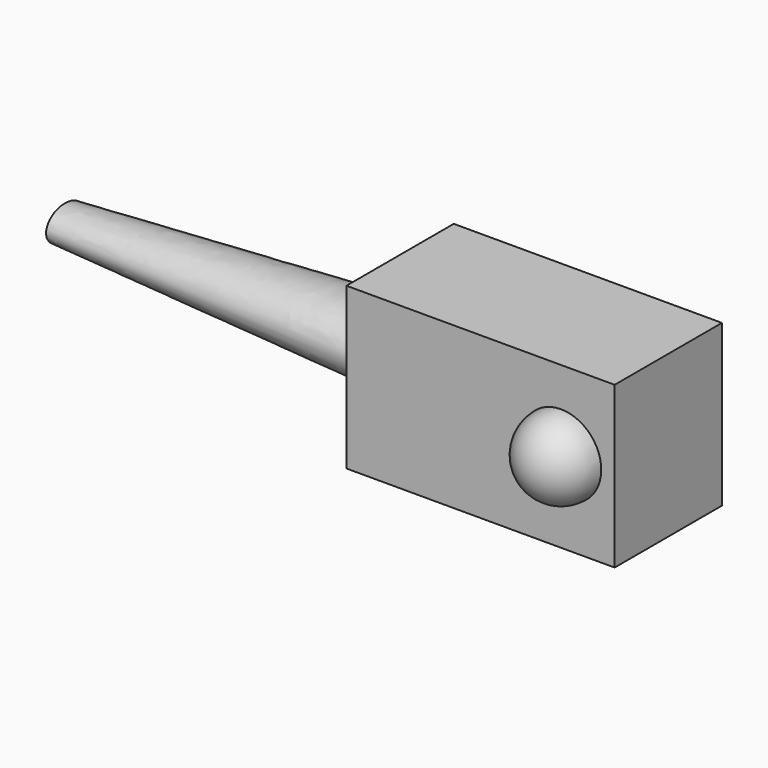
from build123d import *

# Parameters (mm, degrees)
F0_W     = 200
F0_H     = 100
F1_DEPTH = 120


with BuildPart() as f1:
    # F0 (on Top) → F1 (new body)
    with BuildSketch(Plane.XY):
        with Locations((-2440, -1220)):
            Rectangle(F0_W, F0_H)
    extrude(amount=F1_DEPTH)

    # F2 (on face) → F3 (revolve)
    with BuildSketch(Plane.XZ.offset(1270)):
        with BuildLine():
            Line((-2380, 90.9458833933), (-2380, 30.9458833933))
            ThreePointArc((-2380, 30.9458833933), (-2350, 60.9458833933), (-2380, 90.9458833933))
        make_face()
    revolve(axis=Axis((-2380, -1270, 60.9458833933), (0, 0, -1)))

    # F5 (on face) → F8 section 0
    with BuildSketch(Plane(origin=(-2540, 0, 0), x_dir=(0, -1, 0), z_dir=(-1, 0, 0))):
        with BuildLine():
            add(Edge.make_bspline(
                [(1255, 60), (1255, 103.3012701892), (1202.5, 81.6506350946), (1150, 60), (1202.5, 38.3493649054), (1255, 16.6987298108), (1255, 60)],
                knots=[0, 0, 0, 2.0943951024, 2.0943951024, 4.1887902048, 4.1887902048, 6.2831853072, 6.2831853072, 6.2831853072], degree=2, weights=[1, 0.5, 1, 0.5, 1, 0.5, 1]))
        make_face()
    # F7 (on offset) → F8 section 1
    with BuildSketch(Plane(origin=(-2790, 0, 0), x_dir=(0, -1, 0), z_dir=(-1, 0, 0))):
        with BuildLine():
            add(Edge.make_bspline(
                [(1237.5, 60), (1237.5, 81.6506350946), (1211.25, 70.8253175473), (1185, 60), (1211.25, 49.1746824527), (1237.5, 38.3493649054), (1237.5, 60)],
                knots=[0, 0, 0, 2.0943951024, 2.0943951024, 4.1887902048, 4.1887902048, 6.2831853072, 6.2831853072, 6.2831853072], degree=2, weights=[1, 0.5, 1, 0.5, 1, 0.5, 1]))
        make_face()
    loft()


solid = f1.part
